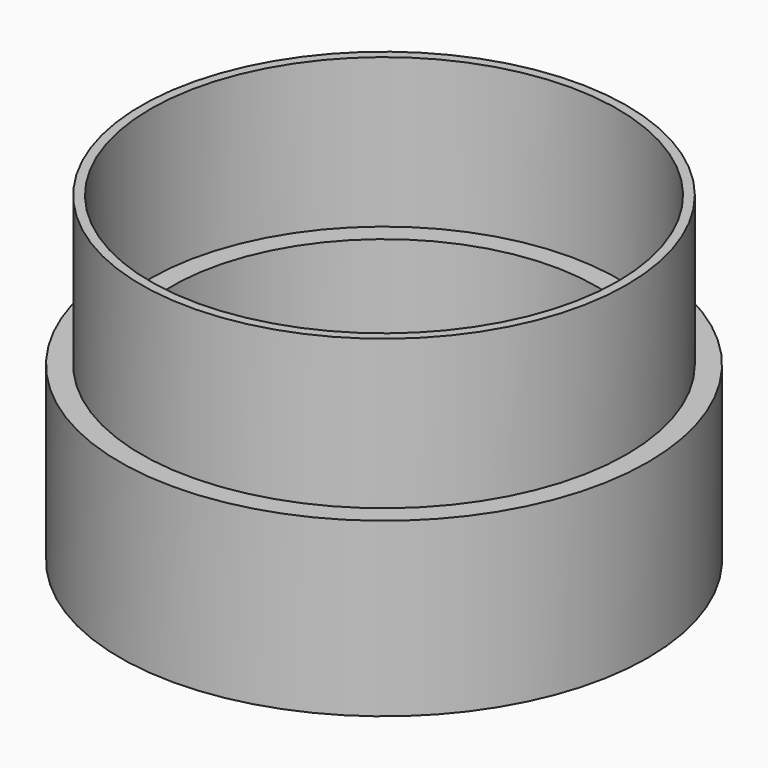
from build123d import *

# Parameters (mm, degrees)
F0_W   = 1.5
F0_H   = 13
F0_H_2 = 2
F0_W_2 = 0.8


with BuildPart() as f1:
    # F0 (on Front) → F1 (revolve)
    with BuildSketch(Plane.XZ):
        with Locations((19.25, 6.5)):
            Rectangle(F0_W, F0_H)
        with Locations((22.25, 6.5)):
            Rectangle(F0_W, F0_H)
        with Locations((22.25, 14)):
            Rectangle(F0_W, F0_H_2)
        Polygon((20, 15), (20, 13), (21.5, 13), (21.5, 15), (21.15, 15), (20.35, 15), align=None)
        with Locations((19.25, 14)):
            Rectangle(F0_W, F0_H_2)
        with Locations((20.75, 21.5)):
            Rectangle(F0_W_2, F0_H)
    revolve(axis=Axis((0, 0, 7.5), (0, 0, 1)))


solid = f1.part
